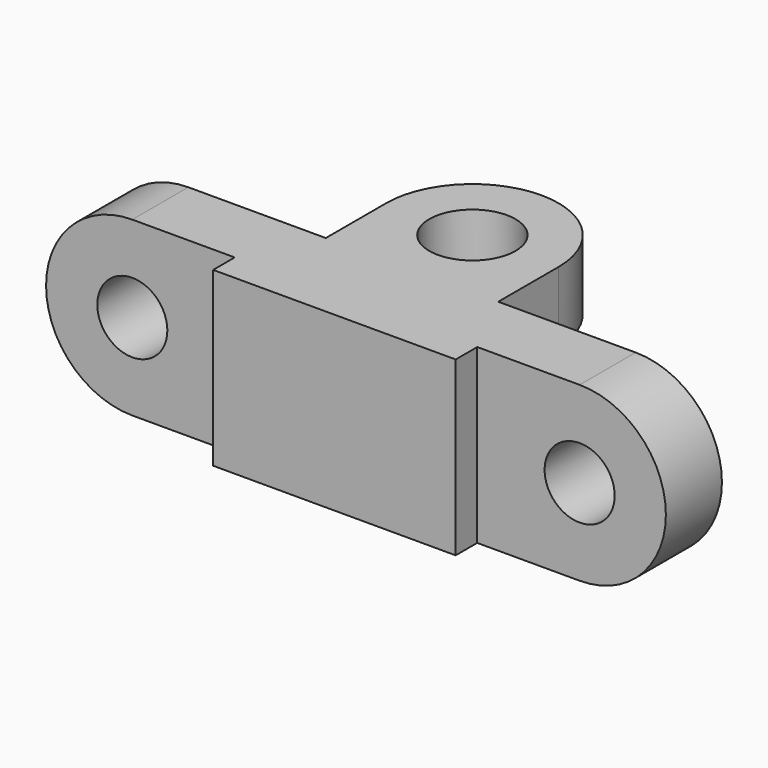
from build123d import *

# Parameters (mm, degrees)
F0_R     = 6.5
F1_DEPTH = 13
F2_W     = 45
F2_H     = 32
F3_DEPTH = 5
F4_R     = 8
F5_DEPTH = 13


with BuildPart() as f1:
    # F0 (on Front) → F1 (new body)
    with BuildSketch(Plane.XZ):
        with BuildLine():
            ThreePointArc((-60.0442450565, 32), (-76.0442450565, 16), (-60.0442450565, 0))
            Line((-60.0442450565, 0), (22.9557549435, 0))
            ThreePointArc((22.9557549435, 0), (38.9557549435, 16), (22.9557549435, 32))
            Line((22.9557549435, 32), (-60.0442450565, 32))
        make_face()
        with Locations((-60.0442450565, 16)):
            Circle(F0_R, mode=Mode.SUBTRACT)
        with Locations((22.9557549435, 16)):
            Circle(F0_R, mode=Mode.SUBTRACT)
    extrude(amount=F1_DEPTH)

    # F2 (on face) → F3 (join)
    with BuildSketch(Plane.XZ.offset(13)):
        with Locations((-18.5442450565, 16)):
            Rectangle(F2_W, F2_H)
    extrude(amount=F3_DEPTH)

    # F4 (on face) → F5 (join)
    with BuildSketch(Plane.XY.offset(32)):
        with BuildLine():
            Line((-34.5442450565, 14), (-34.5442450565, 0))
            Line((-34.5442450565, 0), (-2.5442450565, 0))
            Line((-2.5442450565, 0), (-2.5442450565, 14))
            ThreePointArc((-2.5442450565, 14), (-18.5442450565, 30), (-34.5442450565, 14))
        make_face()
        with Locations((-18.5442450565, 14)):
            Circle(F4_R, mode=Mode.SUBTRACT)
    extrude(amount=-F5_DEPTH)


solid = f1.part
